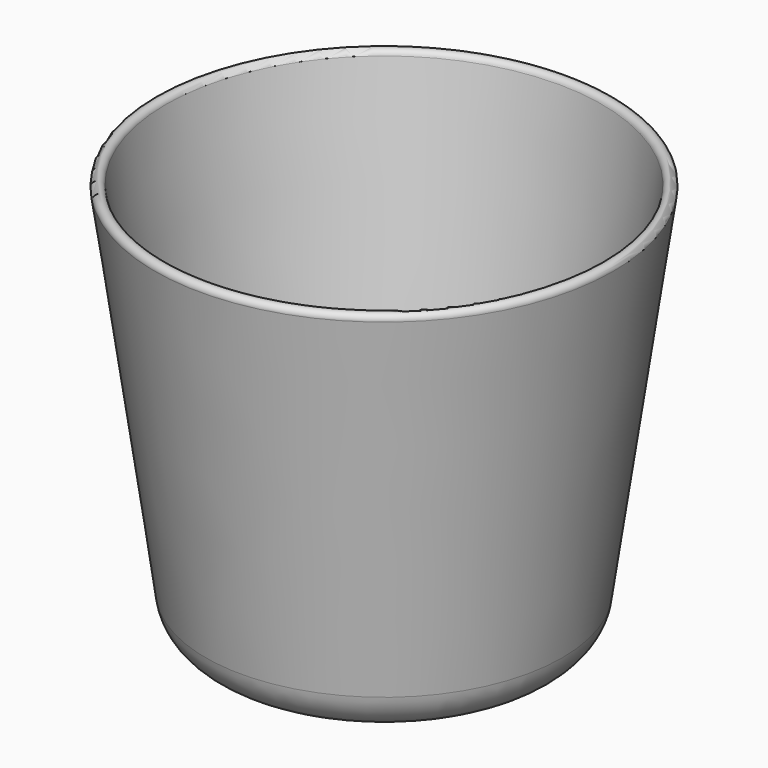
from build123d import *


with BuildPart() as f1:
    # F0 (on Front) → F1 (revolve)
    with BuildSketch(Plane.XZ):
        with BuildLine():
            Line((25.357504, 12), (0, 12))
            Line((0, 12), (0, 0))
            Line((0, 0), (23.061637, 0))
            ThreePointArc((23.061637, 0), (28.303251, 1.956368), (30.981233, 6.868629))
            Line((30.981233, 6.868629), (39.83694, 68.858579))
            ThreePointArc((39.83694, 68.858579), (38.988412, 69.989949), (37.857041, 69.141421))
            Line((37.857041, 69.141421), (30.307251, 16.292893))
            ThreePointArc((30.307251, 16.292893), (28.633512, 13.22273), (25.357504, 12))
        make_face()
    revolve(axis=Axis((0, 0, 6), (0, 0, -1)))


solid = f1.part
